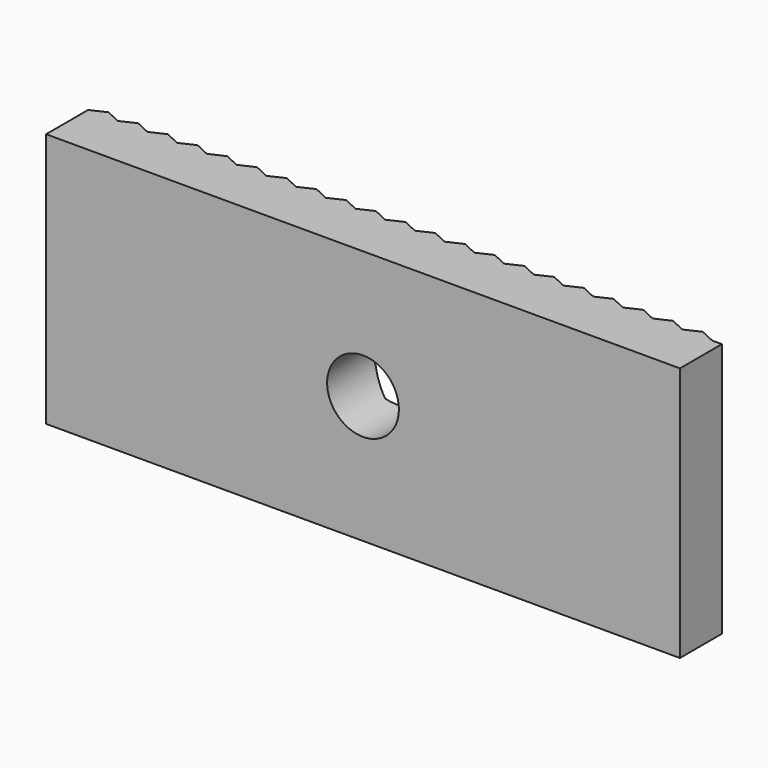
from build123d import *

# Parameters (mm, degrees)
F0_W     = 64
F0_H     = 25.75
F0_R     = 3.625
F1_DEPTH = 6
F3_DEPTH = 26.50399


with BuildPart() as f1:
    # F0 (on Front) → F1 (new body)
    with BuildSketch(Plane.XZ):
        with Locations((-2.422976, 12.875)):
            Rectangle(F0_W, F0_H)
        with Locations((-2.422976, 12.875)):
            Circle(F0_R, mode=Mode.SUBTRACT)
    extrude(amount=F1_DEPTH)

    # F2 (on face) → F3 (cut)
    with BuildSketch(Plane.XY.offset(25.75)):
        Polygon((-34.422976, 0), (-34.422976, -0.7), (-32.922976, 0), align=None)
        Polygon((-32.922976, 0), (-31.422976, -0.7), (-29.922976, 0), align=None)
        Polygon((-29.922976, 0), (-28.422976, -0.7), (-26.922976, 0), align=None)
        Polygon((-26.922976, 0), (-25.422976, -0.7), (-23.922976, 0), align=None)
        Polygon((-23.922976, 0), (-22.422976, -0.7), (-20.922976, 0), align=None)
        Polygon((-20.922976, 0), (-19.422976, -0.7), (-17.922976, 0), align=None)
        Polygon((-17.922976, 0), (-16.422976, -0.7), (-14.922976, 0), align=None)
        Polygon((-14.922976, 0), (-13.422976, -0.7), (-11.922976, 0), align=None)
        Polygon((-11.922976, 0), (-10.422976, -0.7), (-8.922976, 0), align=None)
        Polygon((-8.922976, 0), (-7.422976, -0.7), (-5.922976, 0), align=None)
        Polygon((-5.922976, 0), (-4.422976, -0.7), (-2.922976, 0), align=None)
        Polygon((-2.922976, 0), (-1.422976, -0.7), (0.077024, 0), align=None)
        Polygon((0.077024, 0), (1.577024, -0.7), (3.077024, 0), align=None)
        Polygon((4.577024, -0.7), (6.077024, 0), (3.077024, 0), align=None)
        Polygon((7.577024, -0.7), (9.077024, 0), (6.077024, 0), align=None)
        Polygon((10.577024, -0.7), (12.077024, 0), (9.077024, 0), align=None)
        Polygon((13.577024, -0.7), (15.077024, 0), (12.077024, 0), align=None)
        Polygon((16.577024, -0.7), (18.077024, 0), (15.077024, 0), align=None)
        Polygon((19.577024, -0.7), (21.077024, 0), (18.077024, 0), align=None)
        Polygon((22.577024, -0.7), (24.077024, 0), (21.077024, 0), align=None)
        Polygon((25.577024, -0.7), (27.077024, 0), (24.077024, 0), align=None)
        Polygon((28.577024, -0.7), (29.577024, -0.7), (29.577024, 0), (27.077024, 0), align=None)
    extrude(amount=-F3_DEPTH, mode=Mode.SUBTRACT)


solid = f1.part
